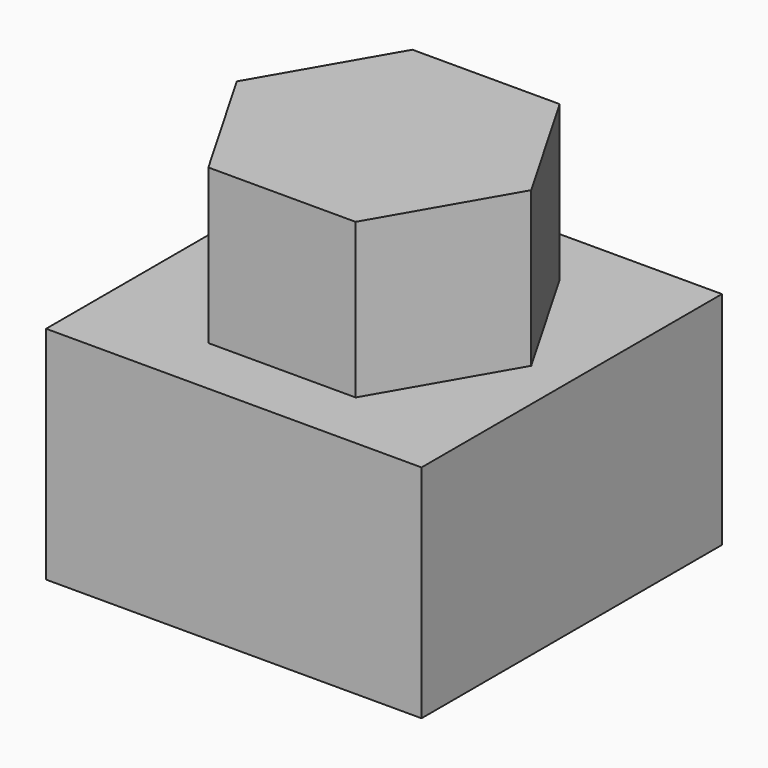
from build123d import *

# Parameters (mm, degrees)
F0_W     = 51
F0_H     = 51
F1_DEPTH = 30
F3_DEPTH = 21


with BuildPart() as f1:
    # F0 (on Top) → F1 (new body)
    with BuildSketch(Plane.XY):
        Rectangle(F0_W, F0_H)
    extrude(amount=F1_DEPTH)

    # F2 (on face) → F3 (join)
    with BuildSketch(Plane.XY.offset(30)):
        Polygon((-10, 17.320508), (-20, 0), (-10, -17.320508), (10, -17.320508), (20, 0), (10, 17.320508), align=None)
    extrude(amount=F3_DEPTH)


solid = f1.part
